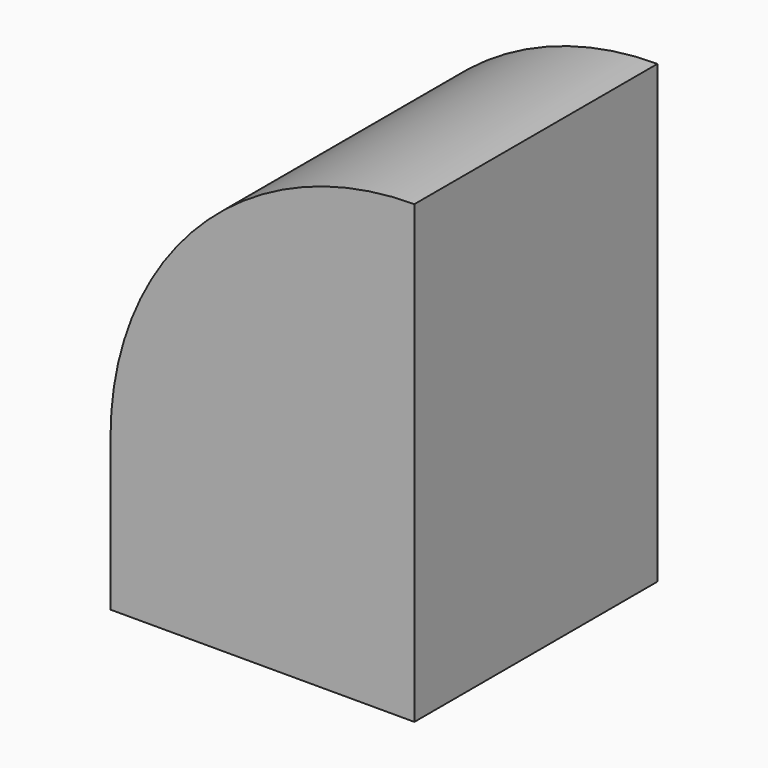
from build123d import *

# Parameters (mm, degrees)
F0_W      = 50
F0_H      = 50
F1_DEPTH  = 25
F1_FACE_W = 50
F1_FACE_H = 50
F2_ANGLE  = 90


with BuildPart() as f1:
    # F0 (on Top) → F1 (new body)
    with BuildSketch(Plane.XY):
        with Locations((25, 25)):
            Rectangle(F0_W, F0_H)
    extrude(amount=F1_DEPTH)

    # F1_face (on face) → F2 (revolve)
    with BuildSketch(Plane(origin=(25, 25, 25), x_dir=(1, 0, 0), z_dir=(0, 0, 1))):
        Rectangle(F1_FACE_W, F1_FACE_H)
    revolve(axis=Axis((50, 25, 25), (0, 1, 0)), revolution_arc=F2_ANGLE)


solid = f1.part
